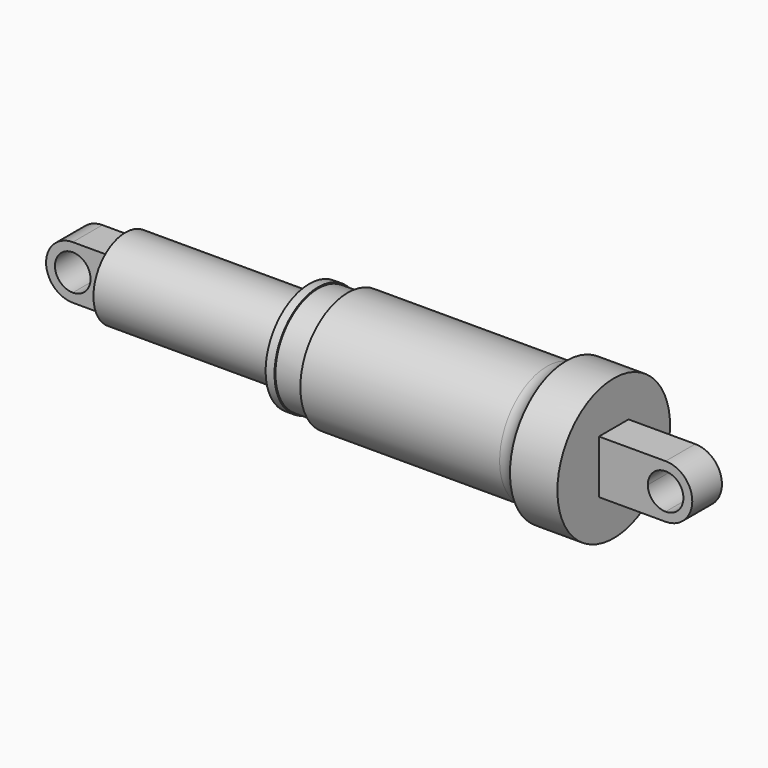
from build123d import *

# Parameters (mm, degrees)
F0_W     = 30.222708
F0_H     = 13.5
F3_DEPTH = 6.25
F4_DEPTH = 6.25


with BuildPart() as f1:
    # F0 (on Front) → F1 (revolve)
    with BuildSketch(Plane.XZ):
        with BuildLine():
            Line((-12.361354, 11.65), (-12.361354, 6.75))
            Line((-12.361354, 6.75), (17.861354, 6.75))
            Line((17.861354, 6.75), (74.361354, 6.75))
            Line((74.361354, 6.75), (74.361354, -6.75))
            Line((74.361354, -6.75), (90.361354, -6.75))
            Line((90.361354, -6.75), (90.361354, 2.25))
            Line((90.361354, 2.25), (90.361354, 17))
            Line((90.361354, 17), (74.361354, 17))
            ThreePointArc((74.361354, 17), (71.613437, 14.254723), (67.861354, 13.25))
            Line((67.861354, 13.25), (0.638646, 13.25))
            Line((0.638646, 13.25), (0.638646, 11.25))
            Line((0.638646, 11.25), (-9.361354, 11.25))
            Line((-9.361354, 11.25), (-9.361354, 11.65))
            Line((-9.361354, 11.65), (-12.361354, 11.65))
        make_face()
    revolve(axis=Axis((93.611354, 0, -6.75), (1, 0, 0)))

    # F0 (on Front) → F4 (join, symmetric)
    with BuildSketch(Plane.XZ):
        with BuildLine():
            Line((90.361354, 2.25), (90.361354, -6.75))
            Line((90.361354, -6.75), (103.861354, -6.75))
            ThreePointArc((103.861354, -6.75), (106.497393, -0.386039), (112.861354, 2.25))
            Line((112.861354, 2.25), (90.361354, 2.25))
        make_face()
        with BuildLine():
            Line((103.861354, -6.75), (90.361354, -6.75))
            Line((90.361354, -6.75), (90.361354, -15.75))
            Line((90.361354, -15.75), (112.861354, -15.75))
            ThreePointArc((112.861354, -15.75), (106.497393, -13.113961), (103.861354, -6.75))
        make_face()
        with BuildLine():
            ThreePointArc((112.861354, 2.25), (106.497393, -0.386039), (103.861354, -6.75))
            ThreePointArc((103.861354, -6.75), (106.497393, -13.113961), (112.861354, -15.75))
            ThreePointArc((112.861354, -15.75), (121.861354, -6.75), (112.861354, 2.25))
        make_face()
        with BuildLine():
            ThreePointArc((112.861354, -12.750001), (108.618712, -10.992641), (106.861353, -6.75))
            ThreePointArc((106.861353, -6.75), (108.618712, -2.507359), (112.861354, -0.749999))
            ThreePointArc((112.861354, -0.749999), (118.861355, -6.75), (112.861354, -12.750001))
        make_face(mode=Mode.SUBTRACT)
    extrude(amount=F4_DEPTH, both=True)


with BuildPart() as f2:
    # F0 (on Front) → F2 (revolve)
    with BuildSketch(Plane.XZ):
        Polygon((-74.361354, 2.25), (-74.361354, -6.75), (-12.361354, -6.75), (-12.361354, 6.75), (-74.361354, 6.75), align=None)
        with Locations((2.75, 0)):
            Rectangle(F0_W, F0_H)
    revolve(axis=Axis((0, 0, -6.75), (1, 0, 0)))

    # F0 (on Front) → F3 (join, symmetric)
    with BuildSketch(Plane.XZ):
        with BuildLine():
            ThreePointArc((-87.138646, -15.75), (-80.774685, -13.113961), (-78.138646, -6.75))
            ThreePointArc((-78.138646, -6.75), (-80.774685, -0.386039), (-87.138646, 2.25))
            ThreePointArc((-87.138646, 2.25), (-96.138646, -6.75), (-87.138646, -15.75))
        make_face()
        with BuildLine():
            ThreePointArc((-87.138646, -0.750004), (-82.896008, -2.507362), (-81.13865, -6.75))
            ThreePointArc((-81.13865, -6.75), (-82.896008, -10.992638), (-87.138646, -12.749996))
            ThreePointArc((-87.138646, -12.749996), (-93.138643, -6.75), (-87.138646, -0.750004))
        make_face(mode=Mode.SUBTRACT)
        with BuildLine():
            Line((-78.138646, -6.75), (-74.361354, -6.75))
            Line((-74.361354, -6.75), (-74.361354, 2.25))
            Line((-74.361354, 2.25), (-87.138646, 2.25))
            ThreePointArc((-87.138646, 2.25), (-80.774685, -0.386039), (-78.138646, -6.75))
        make_face()
        with BuildLine():
            Line((-74.408591, -15.75), (-74.361354, -6.75))
            Line((-74.361354, -6.75), (-78.138646, -6.75))
            ThreePointArc((-78.138646, -6.75), (-80.774685, -13.113961), (-87.138646, -15.75))
            Line((-87.138646, -15.75), (-74.408591, -15.75))
        make_face()
    extrude(amount=F3_DEPTH, both=True)


solid = Compound([f1.part, f2.part])
